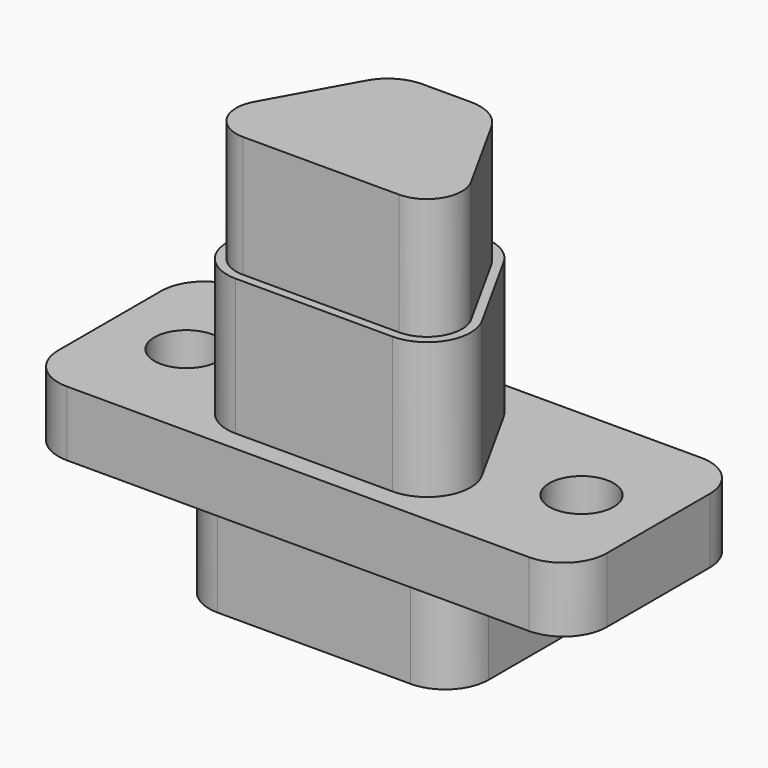
from build123d import *

# Parameters (mm, degrees)
F0_R     = 1.1684
F1_DEPTH = 1.1811
F3_DEPTH = 4.953
F5_DEPTH = 3.5814
F7_DEPTH = 4.4069


with BuildPart() as f1:
    # F0 (on Top) → F1 (new body, symmetric)
    with BuildSketch(Plane.XY):
        with BuildLine():
            Line((8.3947, 3.9116), (-8.3947, 3.9116))
            ThreePointArc((-8.3947, 3.9116), (-9.508252, 3.450352), (-9.9695, 2.3368))
            Line((-9.9695, 2.3368), (-9.9695, -2.3368))
            ThreePointArc((-9.9695, -2.3368), (-9.508252, -3.450352), (-8.3947, -3.9116))
            Line((-8.3947, -3.9116), (8.3947, -3.9116))
            ThreePointArc((8.3947, -3.9116), (9.508252, -3.450352), (9.9695, -2.3368))
            Line((9.9695, -2.3368), (9.9695, 2.3368))
            ThreePointArc((9.9695, 2.3368), (9.508252, 3.450352), (8.3947, 3.9116))
        make_face()
        with Locations((-7.1755, 0)):
            Circle(F0_R, mode=Mode.SUBTRACT)
        with Locations((7.1755, 0)):
            Circle(F0_R, mode=Mode.SUBTRACT)
    extrude(amount=F1_DEPTH, both=True)

    # F2 (on face) → F3 (join)
    with BuildSketch(Plane.XY.offset(1.1811)):
        with BuildLine():
            Line((-2.85102, -3.175), (2.852478, -3.175))
            ThreePointArc((2.852478, -3.175), (4.209371, -2.399471), (4.229829, -0.836722))
            Line((4.229829, -0.836722), (2.455818, 2.363678))
            ThreePointArc((2.455818, 2.363678), (1.877738, 2.957094), (1.078467, 3.175))
            Line((1.078467, 3.175), (-1.077009, 3.175))
            ThreePointArc((-1.077009, 3.175), (-1.876281, 2.957094), (-2.454361, 2.363678))
            Line((-2.454361, 2.363678), (-4.228371, -0.836722))
            ThreePointArc((-4.228371, -0.836722), (-4.207914, -2.399471), (-2.85102, -3.175))
        make_face()
    extrude(amount=F3_DEPTH)

    # F4 (on face) → F5 (join)
    with BuildSketch(Plane(origin=(0, 0, -1.1811), x_dir=(1, 0, 0), z_dir=(0, 0, -1))):
        with BuildLine():
            Line((3.5052, 3.175), (-3.5052, 3.175))
            ThreePointArc((-3.5052, 3.175), (-4.618752, 2.713752), (-5.08, 1.6002))
            Line((-5.08, 1.6002), (-5.08, -1.6002))
            ThreePointArc((-5.08, -1.6002), (-4.618752, -2.713752), (-3.5052, -3.175))
            Line((-3.5052, -3.175), (3.5052, -3.175))
            ThreePointArc((3.5052, -3.175), (4.618752, -2.713752), (5.08, -1.6002))
            Line((5.08, -1.6002), (5.08, 1.6002))
            ThreePointArc((5.08, 1.6002), (4.618752, 2.713752), (3.5052, 3.175))
        make_face()
    extrude(amount=F5_DEPTH)

    # F6 (on face) → F7 (join)
    with BuildSketch(Plane.XY.offset(6.1341)):
        with BuildLine():
            Line((0.891445, 2.8575), (-0.889988, 2.8575))
            ThreePointArc((-0.889988, 2.8575), (-1.689259, 2.639594), (-2.267339, 2.046178))
            Line((-2.267339, 2.046178), (-3.940227, -0.971792))
            ThreePointArc((-3.940227, -0.971792), (-3.923729, -2.232074), (-2.82946, -2.8575))
            Line((-2.82946, -2.8575), (2.830917, -2.8575))
            ThreePointArc((2.830917, -2.8575), (3.925186, -2.232074), (3.941684, -0.971792))
            Line((3.941684, -0.971792), (2.268796, 2.046178))
            ThreePointArc((2.268796, 2.046178), (1.690717, 2.639594), (0.891445, 2.8575))
        make_face()
    extrude(amount=F7_DEPTH)


solid = f1.part
